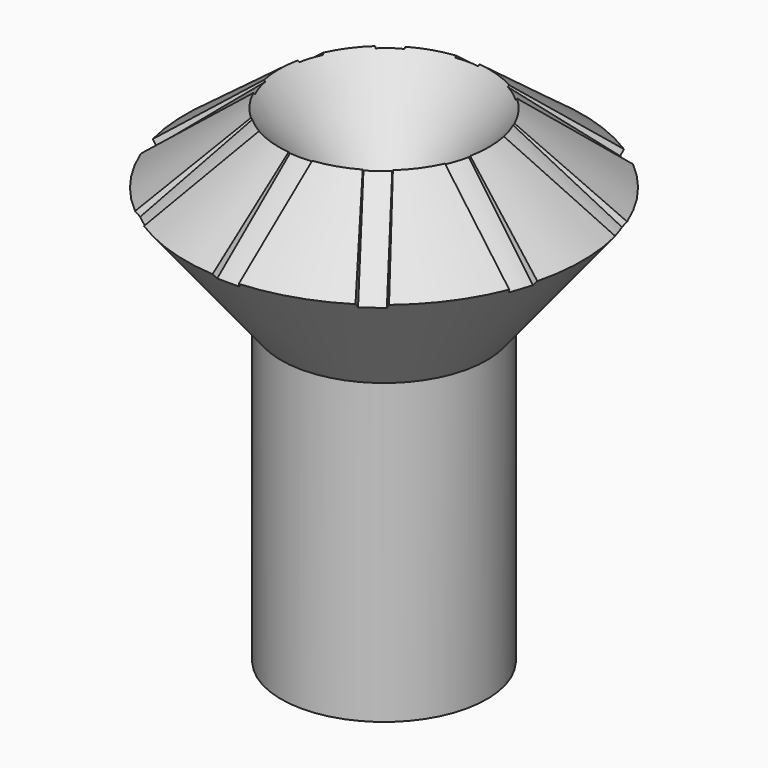
from build123d import *

# Parameters (mm, degrees)
POCKET001_DEPTH    = 335.850526
POLARPATTERN_COUNT = 10


with BuildPart() as part:
    # Sketch003 (on Sketch) → Revolution (revolve)
    with BuildSketch(Plane.YZ):
        Polygon((0, -52.968494), (-18.275258, -52.968494), (-18.275258, 0), (-35.217843, 21.038483), (-18.671614, 33.456837), (-7.212017, 19.226863), (0, 19.226863), align=None)
    revolve(axis=Axis((0, 0, 0), (0, 0, 1)))

    # Sketch004 (on Vertex5 of Revolution) → Pocket001 (cut, through all)
    with BuildSketch(Plane(origin=(0, -5.199434, 24.699477), x_dir=(-1, 0, 0), z_dir=(0, 0.778846, 0.627215))):
        with BuildLine():
            ThreePointArc((2, 14.887447), (0, 14.976512), (-2, 14.887447))
            ThreePointArc((-2, 14.887447), (-3.63932, 19.067787), (-6, 22.887447))
            ThreePointArc((6, 22.887447), (0, 23.473689), (-6, 22.887447))
            ThreePointArc((6, 22.887447), (3.63932, 19.067787), (2, 14.887447))
        make_face()
    pocket001 = extrude(amount=-POCKET001_DEPTH, mode=Mode.SUBTRACT)

    # PolarPattern: Pocket001 ×10 about axis
    polarpattern_axis = Axis((0, 0, 0), (0, 0, 1))
    for i in range(1, POLARPATTERN_COUNT):
        add(pocket001.rotate(polarpattern_axis, i * 360 / POLARPATTERN_COUNT), mode=Mode.SUBTRACT)


solid = part.part
